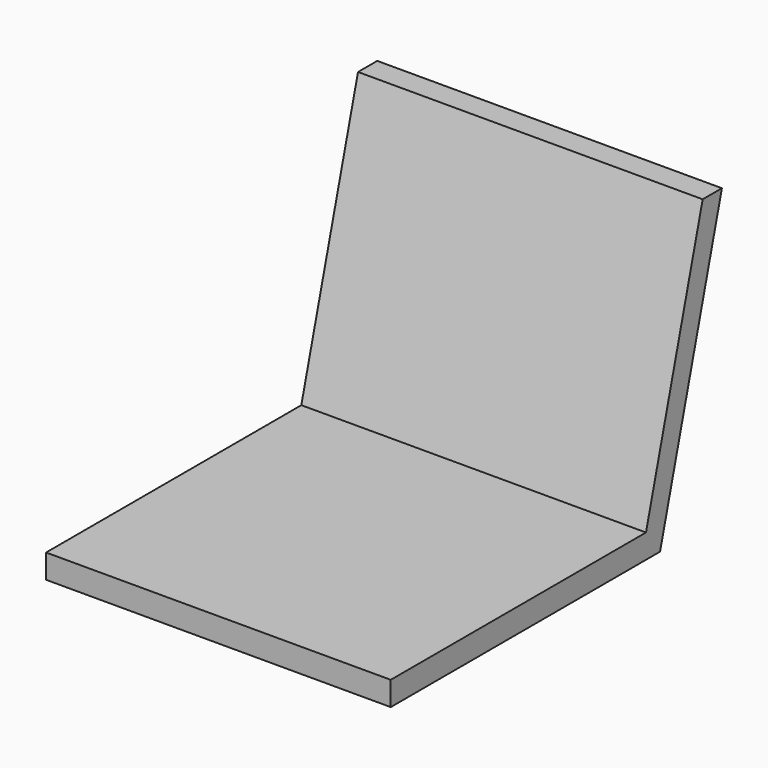
from build123d import *

# Parameters (mm, degrees)
F1_DEPTH      = 273.05
F1_DEPTH_BACK = 273.05
F2_R          = 4.7625
F2_R_2        = 3.175
F3_DEPTH      = 12.7
F4_W          = 187.325
F4_H          = 336.55
F4_R          = 4.7625
F4_R_2        = 3.175
F4_R_3        = 25.4
F5_DEPTH      = 11.1125


with BuildPart() as f1:
    # F0 (on Right) → F1 (new body, two sides)
    with BuildSketch(Plane.YZ) as f1_sk:
        Polygon((0, 38.1), (0, 0), (533.4, 0), (655.906371, 457.2), (617.806371, 457.2), (505.508864, 38.1), align=None)
    extrude(amount=F1_DEPTH)
    extrude(f1_sk.sketch, amount=-F1_DEPTH_BACK)

    # F2 (on face) → F3 (cut)
    with BuildSketch(Plane(origin=(0, 0, 0), x_dir=(1, 0, 0), z_dir=(0, 0, -1))):
        with Locations((-63.5, -114.3)):
            Circle(F2_R)
        with Locations((-63.5, -419.1)):
            Circle(F2_R)
        with Locations((63.5, -419.1)):
            Circle(F2_R)
        with Locations((69.85, -334.9625)):
            Circle(F2_R_2)
        with Locations((69.85, -198.4375)):
            Circle(F2_R_2)
        with Locations((-69.85, -198.4375)):
            Circle(F2_R_2)
        with Locations((-69.85, -334.9625)):
            Circle(F2_R_2)
        with Locations((63.5, -114.3)):
            Circle(F2_R)
    extrude(amount=-F3_DEPTH, mode=Mode.SUBTRACT)

    # F4 (on face) → F5 (join)
    with BuildSketch(Plane(origin=(0, 0, 0), x_dir=(1, 0, 0), z_dir=(0, 0, -1))):
        with Locations((0, -266.7)):
            Rectangle(F4_W, F4_H)
        with Locations((-63.5, -419.1)):
            Circle(F4_R, mode=Mode.SUBTRACT)
        with Locations((-69.85, -334.9625)):
            Circle(F4_R_2, mode=Mode.SUBTRACT)
        with Locations((63.5, -419.1)):
            Circle(F4_R, mode=Mode.SUBTRACT)
        with Locations((69.85, -334.9625)):
            Circle(F4_R_2, mode=Mode.SUBTRACT)
        with Locations((-69.85, -198.4375)):
            Circle(F4_R_2, mode=Mode.SUBTRACT)
        with Locations((-63.5, -114.3)):
            Circle(F4_R, mode=Mode.SUBTRACT)
        with Locations((0, -266.7)):
            Circle(F4_R_3, mode=Mode.SUBTRACT)
        with Locations((69.85, -198.4375)):
            Circle(F4_R_2, mode=Mode.SUBTRACT)
        with Locations((63.5, -114.3)):
            Circle(F4_R, mode=Mode.SUBTRACT)
    extrude(amount=F5_DEPTH)


solid = f1.part
